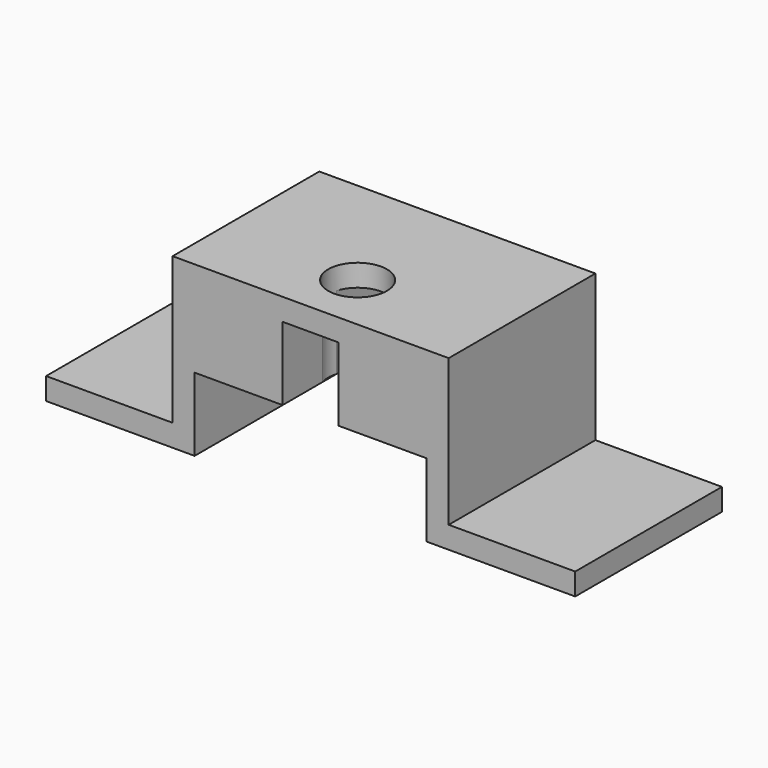
from build123d import *

# Parameters (mm, degrees)
F0_W     = 12
F0_H     = 10
F1_DEPTH = 25
F2_R     = 4
F3_DEPTH = 23.001


with BuildPart() as f1:
    # F0 (on Front) → F1 (new body)
    with BuildSketch(Plane.XZ):
        Polygon((3.822784, 10), (15.822784, 10), (15.822784, 0), (15.822784, -10), (36.072782, -10), (36.072782, -7), (18.822784, -7), (18.822784, 13), (0, 13), (-18.822784, 13), (-18.822784, -7), (-36.072782, -7), (-36.072782, -10), (-15.822784, -10), (-15.822784, 0), (-15.822784, 10), (-3.822784, 10), align=None)
        with Locations((-9.822784, 5)):
            Rectangle(F0_W, F0_H)
        with Locations((9.822784, 5)):
            Rectangle(F0_W, F0_H)
    extrude(amount=F1_DEPTH)

    # F2 (on face) → F3 (cut, through all)
    with BuildSketch(Plane.XY.offset(13)):
        with Locations((0, -17)):
            Circle(F2_R)
    extrude(amount=-F3_DEPTH, mode=Mode.SUBTRACT)


solid = f1.part
